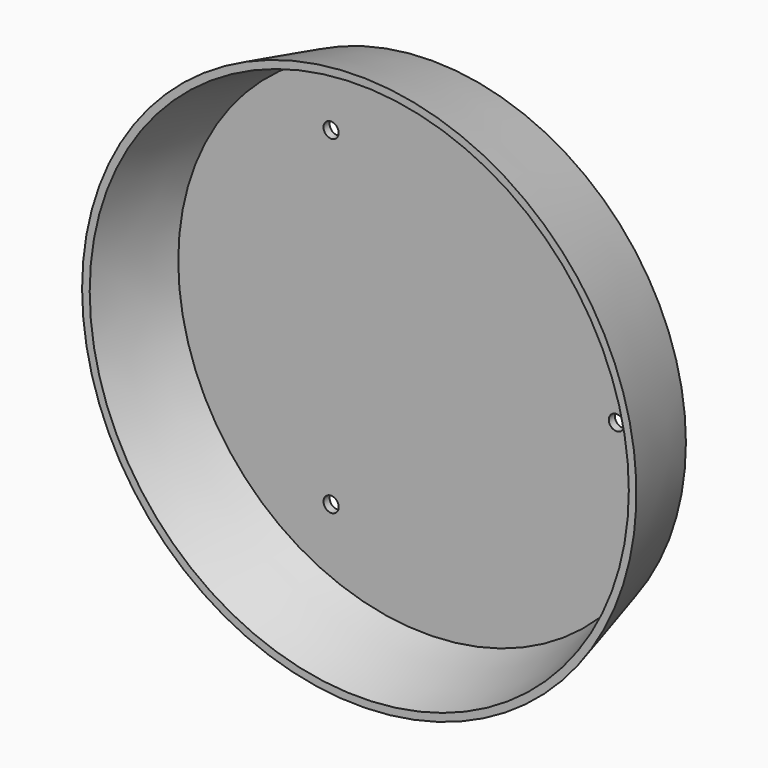
from build123d import *

# Parameters (mm, degrees)
SKETCH001_R = 1.5
HOLE_DEPTH  = 25


with BuildPart() as part:
    # Sketch → Revolution (revolve)
    with BuildSketch(Plane.XY):
        Polygon((-54.6463, 0), (-53.1463, 0), (-48.887192, 16.5), (0, 16.5), (0, 18), (-50, 18), align=None)
    revolve(axis=Axis((0, 0, 0), (0, 1, 0)))

    # Sketch001 (on Face4 of Revolution) → Hole (cut)
    with BuildSketch(Plane(origin=(0, 18, 0), x_dir=(-1, 0, 0), z_dir=(0, 1, 0))):
        with Locations((-37.5, 0)):
            Circle(SKETCH001_R)
        with Locations((18.75, 32.475953)):
            Circle(SKETCH001_R)
        with Locations((18.75, -32.475953)):
            Circle(SKETCH001_R)
    extrude(amount=-HOLE_DEPTH, mode=Mode.SUBTRACT)


solid = part.part
